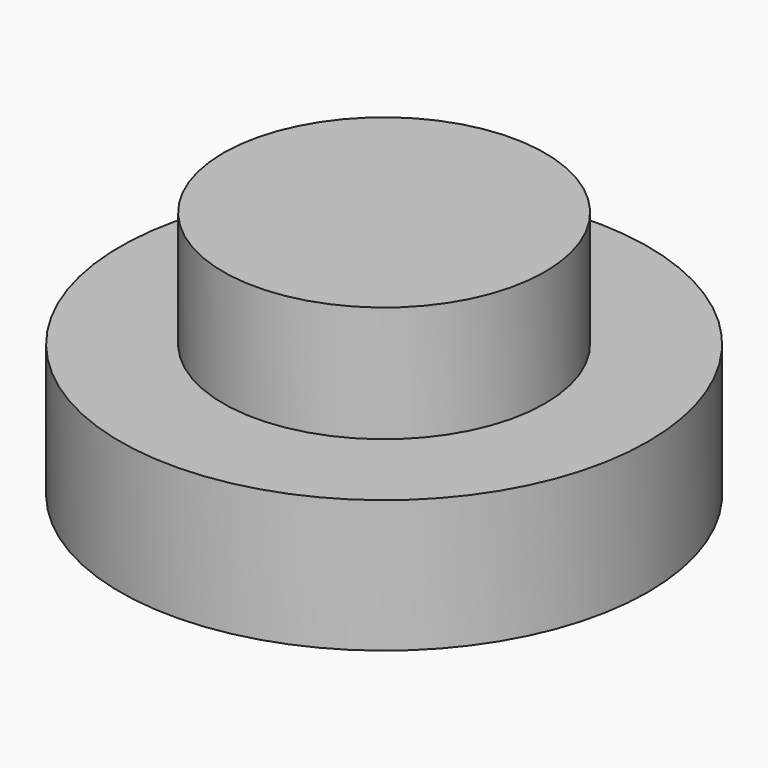
from build123d import *

# Parameters (mm, degrees)
F0_R      = 20.2439763863
F1_DEPTH  = 10.16
F2_R      = 12.3390116376
F3_DEPTH  = 8.89
F5_DEPTH  = 0.254
F6_DEPTH  = 0.254
F7_DEPTH  = 2.286
F8_DEPTH  = 2.286
F10_DEPTH = 25.4
F11_DEPTH = 50.8
F12_DEPTH = 1.27
F13_DEPTH = 1.27
F14_DEPTH = 25.4


with BuildPart() as f1:
    # F0 (on Top) → F1 (new body)
    with BuildSketch(Plane.XY):
        Circle(F0_R)
    extrude(amount=F1_DEPTH)

    # F2 (on face) → F3 (join)
    with BuildSketch(Plane.XY.offset(10.16)):
        Circle(F2_R)
    extrude(amount=F3_DEPTH)

    # F4 (on Front) → F5 (join)
    with BuildSketch(Plane.XZ):
        with BuildLine():
            add(Edge.make_bspline(
                [(-12.1147008613, 18.9316812903), (-12.5825885387, 39.643614737), (-14.1043760911, 180.4872847527), (-20.1423116849, 215.1594423433), (-16.5980636671, 214.2285434237), (-12.8136342596, 217.1071550637), (-13.8994905387, 225.3991797656), (-17.690195851, 229.7737918888), (-21.3235962144, 228.5443351063), (-21.72468447, 231.1706865689), (-23.0745608098, 250.4649690024), (-22.9518555989, 256.8313726894), (-25.9612755155, 279.5145026457), (-19.7421258922, 272.3476049684), (-8.8885956952, 268.998501799), (6.6271937698, 261.4946225406), (12.2027765589, 256.1934321206), (17.5689411606, 248.9539384021), (19.5820695948, 242.6412768865), (21.7285943019, 235.2163703421), (21.0795757322, 226.6989574981), (17.1180518063, 124.7114584437), (15.2094878956, 77.70771609), (11.6083548837, 18.1667354361), (12.5199184163, 13.1739974773), (7.8980496645, 11.3722942506), (0.3726356815, 13.3748423837), (-11.8699226938, 12.3427906017), (-12.0266797417, 15.035259866), (-12.1147008613, 18.9316812903)],
                knots=[0, 0, 0, 0, 0.1257254435, 0.1801466998, 0.1919036578, 0.2112403794, 0.2389108592, 0.261334308, 0.2775826335, 0.2907551098, 0.3325149493, 0.3636705446, 0.4039783899, 0.4240659342, 0.4586729556, 0.4992031799, 0.5266476396, 0.5552636706, 0.5809163826, 0.6063516787, 0.6344015668, 0.7303572224, 0.8074506533, 0.8789177389, 0.897509656, 0.9162026247, 0.9446563322, 0.976347968, 1, 1, 1, 1], degree=3))
        make_face()
    extrude(amount=F5_DEPTH)

    # F6 (add): a face of the model
    f6_faces = [f1.faces().sort_by_distance(p)[0] for p in [
        (0.2349858377, 0, 153.5959306446),
    ]]
    extrude(f6_faces, amount=F6_DEPTH)

    # F7 (add): a face of the model
    f7_faces = [f1.faces().sort_by_distance(p)[0] for p in [
        (0.2349858377, 0.254, 153.5959306446),
    ]]
    extrude(f7_faces, amount=F7_DEPTH)

    # F8 (add): a face of the model
    f8_faces = [f1.faces().sort_by_distance(p)[0] for p in [
        (0.2349858377, -0.254, 153.5959306446),
    ]]
    extrude(f8_faces, amount=F8_DEPTH)

    # F9 (on Front) → F10 (join)
    with BuildSketch(Plane.XZ):
        Polygon((-28.4392070025, 277.075022459), (5.8726719581, 261.9545459747), (-7.6194559224, 282.5416624546), align=None)
    extrude(amount=F10_DEPTH)

    # F11 (cut): a face of the model
    f11_faces = [f1.faces().sort_by_distance(p)[0] for p in [
        (-10.061996989, -25.4, 273.8570769628),
    ]]
    extrude(f11_faces, amount=-F11_DEPTH, mode=Mode.SUBTRACT)

    # F12 (cut): a face of the model
    f12_faces = [f1.faces().sort_by_distance(p)[0] for p in [
        (0.248434517, -2.54, 153.5481680876),
    ]]
    extrude(f12_faces, amount=-F12_DEPTH, mode=Mode.SUBTRACT)

    # F13 (cut): a face of the model
    f13_faces = [f1.faces().sort_by_distance(p)[0] for p in [
        (0.248434517, 2.54, 153.5481680876),
    ]]
    extrude(f13_faces, amount=-F13_DEPTH, mode=Mode.SUBTRACT)

    # F14 (cut): a face of the model
    f14_faces = [f1.faces().sort_by_distance(p)[0] for p in [
        (0.248434517, -1.27, 153.5481680876),
    ]]
    extrude(f14_faces, amount=-F14_DEPTH, mode=Mode.SUBTRACT)


solid = f1.part
